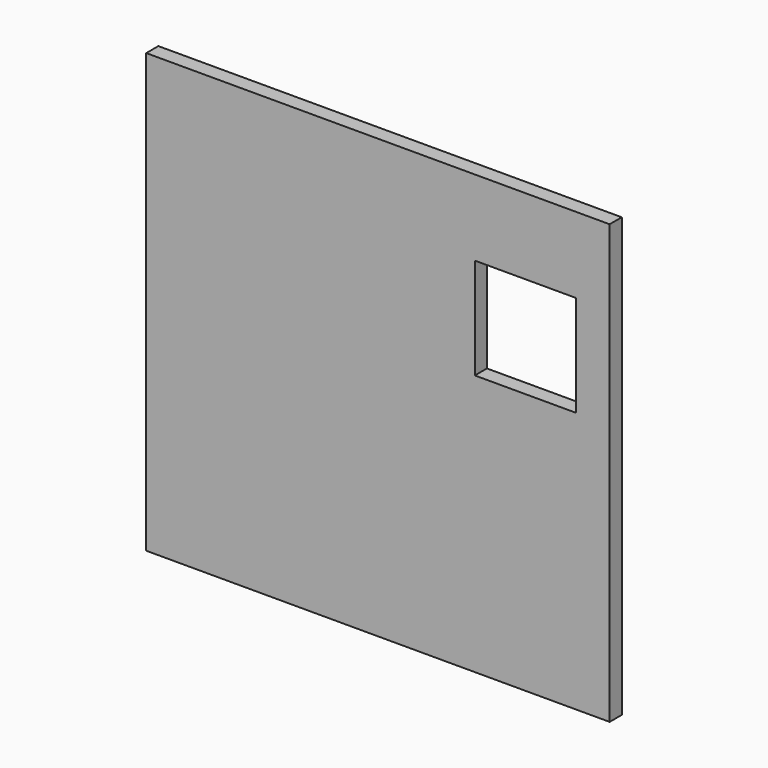
from build123d import *

# Parameters (mm, degrees)
F0_W     = 550
F0_H     = 50
F0_H_2   = 420
F0_W_2   = 120
F0_H_3   = 120
F1_DEPTH = 18


with BuildPart() as f1:
    # F0 (on Front) → F1 (new body)
    with BuildSketch(Plane.XZ):
        with Locations((0, -235)):
            Rectangle(F0_W, F0_H)
        Rectangle(F0_W, F0_H_2)
        with Locations((175, 110)):
            Rectangle(F0_W_2, F0_H_3, mode=Mode.SUBTRACT)
        with Locations((0, 235)):
            Rectangle(F0_W, F0_H)
    extrude(amount=F1_DEPTH)


solid = f1.part
